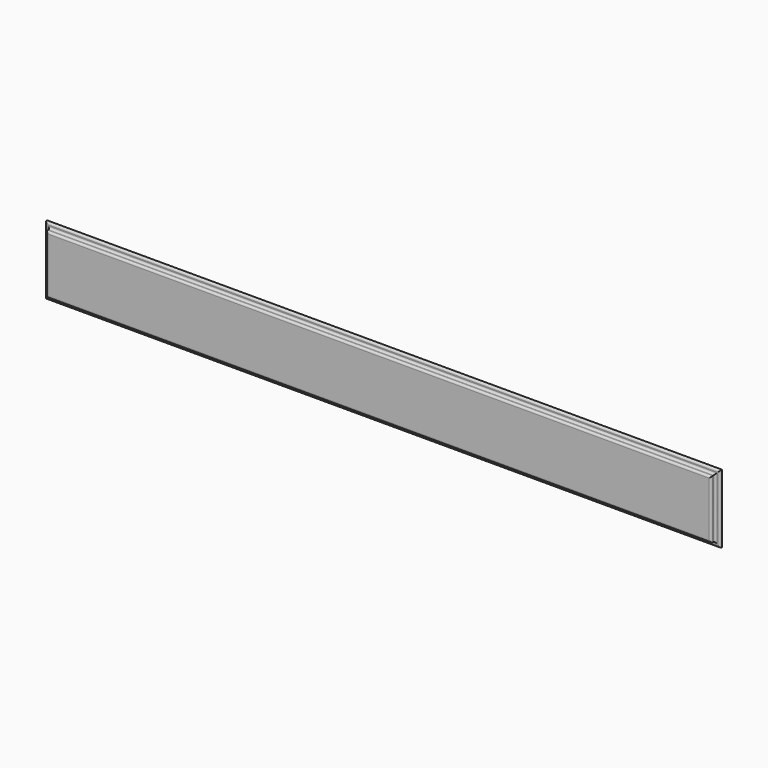
from build123d import *

# Parameters (mm, degrees)
F0_W     = 863.6
F0_H     = 76.2
F1_DEPTH = 9.525
F0_W_2   = 876.3
F0_H_2   = 88.9
F2_DEPTH = 3.175
F3_R     = 2.54


with BuildPart() as f1:
    # F0 (on Front) → F1 (new body)
    with BuildSketch(Plane.XZ):
        Rectangle(F0_W, F0_H)
    extrude(amount=F1_DEPTH)

    # F0 (on Front) → F2 (join)
    with BuildSketch(Plane.XZ):
        Rectangle(F0_W_2, F0_H_2)
        Rectangle(F0_W, F0_H, mode=Mode.SUBTRACT)
    extrude(amount=F2_DEPTH)

    # F3
    f3_edges = [f1.edges().sort_by_distance(p)[0] for p in [
        (431.8, -9.525, 0),
        (0, -9.525, 38.1),
        (-431.8, -9.525, 0),
        (0, -9.525, -38.1),
        (-438.15, -3.175, 0),
        (0, -3.175, -44.45),
        (438.15, -3.175, 0),
        (0, -3.175, 44.45),
        (-431.8, -3.175, 0),
        (0, -3.175, 38.1),
        (431.8, -3.175, 0),
        (0, -3.175, -38.1),
    ]]
    fillet(f3_edges, radius=F3_R)


solid = f1.part
